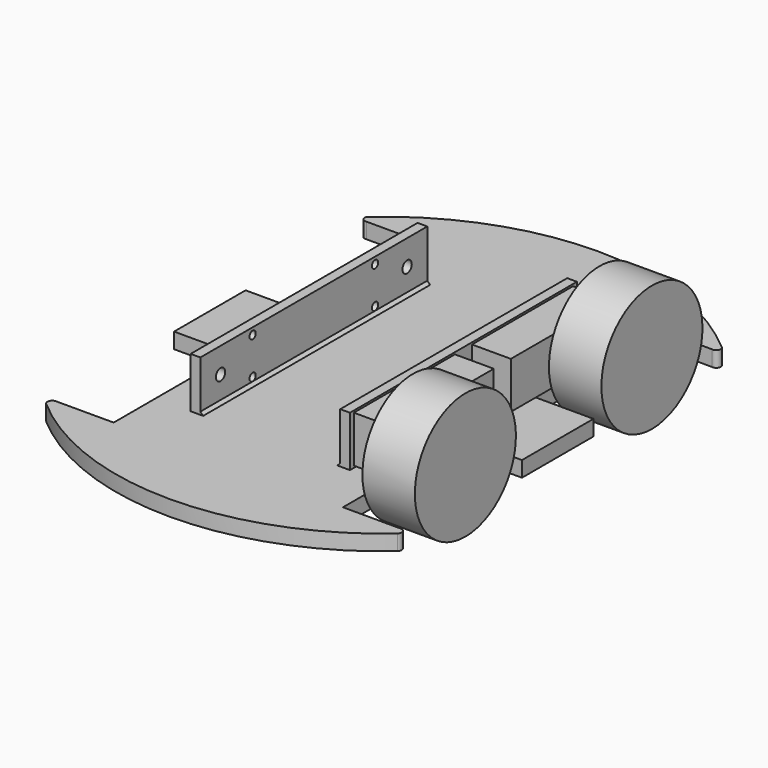
from build123d import *

# Parameters (mm, degrees)
CYLINDER_R             = 32.5
CYLINDER_DEPTH         = 27
CYLINDER001_R          = 2.5
CYLINDER001_DEPTH      = 10
CYLINDER002_R          = 1.5
CYLINDER002_DEPTH      = 30
BOX_W                  = 20
BOX_H                  = 65
BOX_DEPTH              = 24
FUSION_PLACEMENT_ANGLE = 180
SKETCH003_W            = 146
SKETCH003_H            = 26
SKETCH003_R            = 3
SKETCH003_R_2          = 2
EXTRUDE002_DEPTH       = 5
SKETCH002_W            = 34
SKETCH002_H            = 46
EXTRUDE001_DEPTH       = 8
EXTRUDE_DEPTH          = 8
CHAMFER_SIZE           = 1.45


with BuildPart() as obj1:
    # Cylinder → Cylinder (new body)
    with BuildSketch(Plane(origin=(-90, 60, 0), x_dir=(0, 0, -1), z_dir=(1, 0, 0))):
        Circle(CYLINDER_R)
    extrude(amount=CYLINDER_DEPTH)


with BuildPart() as part_mirroring001:
    # Part__Mirroring001: instance of obj1
    add(obj1.part.mirror(Plane(origin=(0, 0, 0), x_dir=(0, -1, 0), z_dir=(1, 0, 0))))


with BuildPart() as cylinder:
    # Cylinder001 → Cylinder001 (new body)
    with BuildSketch(Plane.ZY.offset(20)):
        Circle(CYLINDER001_R)
    extrude(amount=CYLINDER001_DEPTH)


with BuildPart() as cylinder002:
    # Cylinder002 → Cylinder002 (new body)
    with BuildSketch(Plane(origin=(4, 20.63, -9.5), x_dir=(0, 0, 1), z_dir=(-1, 0, 0))):
        Circle(CYLINDER002_R)
    extrude(amount=CYLINDER002_DEPTH)


with BuildPart() as part_mirroring:
    # Part__Mirroring: instance of Cylinder002
    add(cylinder002.part.mirror(Plane(origin=(0, 0, 0), x_dir=(0, 1, 0), z_dir=(0, 0, 1))))


with BuildPart() as motor:
    # Box → Box (new body)
    with BuildSketch(Plane(origin=(-19, -10.5, -12), x_dir=(1, 0, 0), z_dir=(0, 0, 1))):
        with Locations((10, 32.5)):
            Rectangle(BOX_W, BOX_H)
    extrude(amount=BOX_DEPTH)

    # Cut: cut Cylinder002
    add(cylinder002.part, mode=Mode.SUBTRACT)

    # Cut001: cut Part__Mirroring
    add(part_mirroring.part, mode=Mode.SUBTRACT)


with BuildPart() as motor_1:
    # Cut001 placement: moved
    add(motor.part.moved(Location((-1, 0, 0))))

    # Fusion: union Cylinder
    add(cylinder.part)


with BuildPart() as motor_2:
    # Fusion placement: moved
    add(motor_1.part.moved(Location((-61, 60, 0))).rotate(Axis((-61, 60, 0), (0, 0, 1)), FUSION_PLACEMENT_ANGLE))


with BuildPart() as part_mirroring002:
    # Part__Mirroring002: instance of Motor
    add(motor_2.part.mirror(Plane(origin=(0, 0, 0), x_dir=(0, -1, 0), z_dir=(1, 0, 0))))


with BuildPart() as part_mirroring003:
    # Part__Mirroring003: instance of obj1
    add(obj1.part.mirror(Plane(origin=(0, 0, 0), x_dir=(1, 0, 0), z_dir=(0, 1, 0))))


with BuildPart() as part_mirroring005:
    # Part__Mirroring005: instance of Part__Mirroring003
    add(part_mirroring003.part.mirror(Plane(origin=(0, 0, 0), x_dir=(0, -1, 0), z_dir=(1, 0, 0))))


with BuildPart() as part_mirroring004:
    # Part__Mirroring004: instance of Motor
    add(motor_2.part.mirror(Plane(origin=(0, 0, 0), x_dir=(1, 0, 0), z_dir=(0, 1, 0))))


with BuildPart() as part_mirroring006:
    # Part__Mirroring006: instance of Part__Mirroring004
    add(part_mirroring004.part.mirror(Plane(origin=(0, 0, 0), x_dir=(0, -1, 0), z_dir=(1, 0, 0))))


with BuildPart() as obj2:
    # Sketch003 → Extrude002 (new body)
    with BuildSketch(Plane.YZ):
        Rectangle(SKETCH003_W, SKETCH003_H)
        with Locations((-60.01, 0)):
            Circle(SKETCH003_R, mode=Mode.SUBTRACT)
        with Locations((-39.38, 9.52)):
            Circle(SKETCH003_R_2, mode=Mode.SUBTRACT)
        with Locations((-39.38, -9.52)):
            Circle(SKETCH003_R_2, mode=Mode.SUBTRACT)
        with Locations((60.01, 0)):
            Circle(SKETCH003_R, mode=Mode.SUBTRACT)
        with Locations((39.38, 9.52)):
            Circle(SKETCH003_R_2, mode=Mode.SUBTRACT)
        with Locations((39.38, -9.52)):
            Circle(SKETCH003_R_2, mode=Mode.SUBTRACT)
    extrude(amount=EXTRUDE002_DEPTH)


with BuildPart() as obj2_1:
    # Extrude002 placement: moved
    add(obj2.part.moved(Location((-41, 0, 0))))


with BuildPart() as part_mirroring008:
    # Part__Mirroring008: instance of obj2
    add(obj2_1.part.mirror(Plane(origin=(0, 0, 0), x_dir=(0, -1, 0), z_dir=(1, 0, 0))))


with BuildPart() as obj3:
    # Sketch002 → Extrude001 (new body)
    with BuildSketch(Plane.XY):
        with Locations((-72.521602, 0)):
            Rectangle(SKETCH002_W, SKETCH002_H)
    extrude(amount=EXTRUDE001_DEPTH)


with BuildPart() as part_mirroring007:
    # Part__Mirroring007: instance of obj3
    add(obj3.part.mirror(Plane(origin=(0, 0, 0), x_dir=(0, -1, 0), z_dir=(1, 0, 0))))


with BuildPart() as obj4:
    # Sketch001 → Extrude (new body)
    with BuildSketch(Plane.XY):
        with BuildLine():
            Line((59, 100), (59, -100))
            Line((59, -100), (89, -100))
            ThreePointArc((90.427003, -104.19174), (90.980931, -101.664396), (89, -100))
            ThreePointArc((-90.427003, -104.19174), (0, -137.96), (90.427003, -104.19174))
            ThreePointArc((-89, -100), (-90.980931, -101.664396), (-90.427003, -104.19174))
            Line((-59, -100), (-89, -100))
            Line((-59, -100), (-59, 100))
            Line((-59, 100), (-89, 100))
            ThreePointArc((-90.420812, 104.197113), (-91.519436, 101.486162), (-89, 100))
            ThreePointArc((90.420812, 104.197113), (0, 137.96), (-90.420812, 104.197113))
            ThreePointArc((89, 100), (91.519436, 101.486162), (90.420812, 104.197113))
            Line((59, 100), (89, 100))
        make_face()
    extrude(amount=EXTRUDE_DEPTH)


with BuildPart() as obj5:
    # Fusion001 base: copy of obj3
    add(obj3.part)

    # Fusion001: union Part__Mirroring007, obj4
    add(part_mirroring007.part)
    add(obj4.part)


with BuildPart() as obj5_1:
    # Fusion001 placement: moved
    add(obj5.part.moved(Location((0, 0, -21))))


with BuildPart() as chamfer_body:
    # Fusion002 base: copy of obj2
    add(obj2_1.part)

    # Fusion002: union Part__Mirroring008, obj5
    add(part_mirroring008.part)
    add(obj5_1.part)

    # Chamfer
    chamfer_edges = [chamfer_body.edges().sort_by_distance(p)[0] for p in [
        (-36, 0, -13),
        (36, 0, -13),
    ]]
    chamfer(chamfer_edges, length=CHAMFER_SIZE)


solid = Compound([part_mirroring001.part, part_mirroring002.part, part_mirroring005.part, part_mirroring006.part, chamfer_body.part])
